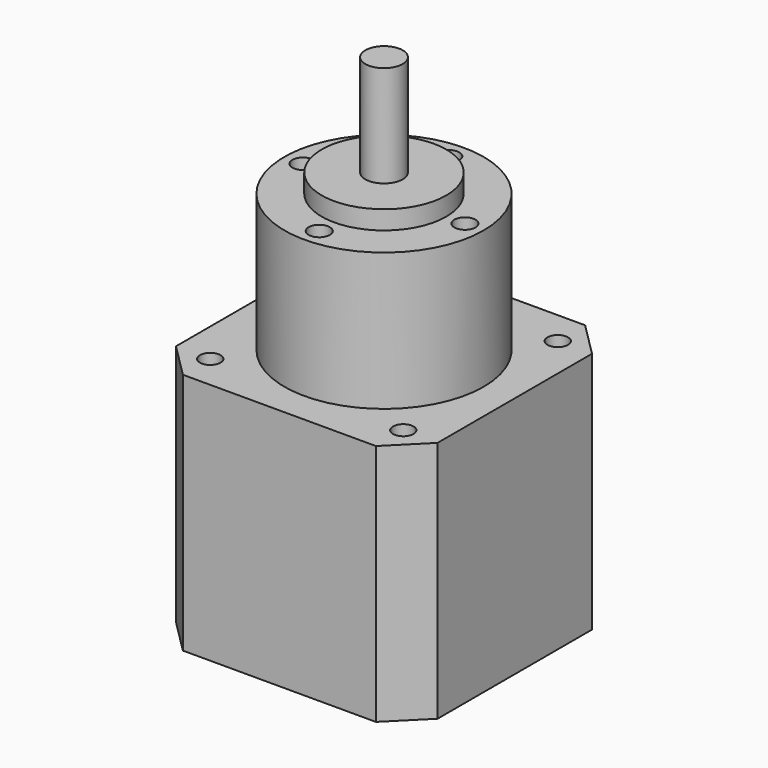
from build123d import *

# Parameters (mm, degrees)
F0_W      = 42
F0_H      = 42
F1_DEPTH  = 39
F2_R      = 16
F3_DEPTH  = 22.1
F4_R      = 10
F5_DEPTH  = 3
F6_R      = 3
F7_DEPTH  = 16.3
F8_SIZE   = 5.5
F10_D     = 3.3
F10_DEPTH = 7
F10_TIP   = 0.9914200214
F12_D     = 3.4
F12_DEPTH = 7
F12_TIP   = 1.0214630523


with BuildPart() as f1:
    # F0 (on Top) → F1 (new body)
    with BuildSketch(Plane.XY):
        Rectangle(F0_W, F0_H)
    extrude(amount=F1_DEPTH)

    # F2 (on face) → F3 (join)
    with BuildSketch(Plane.XY.offset(39)):
        Circle(F2_R)
    extrude(amount=F3_DEPTH)

    # F4 (on face) → F5 (join)
    with BuildSketch(Plane.XY.offset(61.1)):
        Circle(F4_R)
    extrude(amount=F5_DEPTH)

    # F6 (on face) → F7 (join)
    with BuildSketch(Plane.XY.offset(64.1)):
        Circle(F6_R)
    extrude(amount=F7_DEPTH)

    # F8
    f8_edges = [f1.edges().sort_by_distance(p)[0] for p in [
        (-21, 21, 19.5),
        (21, 21, 19.5),
        (21, -21, 19.5),
        (-21, -21, 19.5),
    ]]
    chamfer(f8_edges, length=F8_SIZE)

    # F10
    with Locations(Plane.XY.offset(39)):
        with Locations((-15.5, 15.5), (15.5, 15.5), (15.5, -15.5), (-15.5, -15.5)):
            Hole(F10_D / 2, depth=F10_DEPTH)
            with Locations((0, 0, -(F10_DEPTH + F10_TIP / 2))):  # 118° drill point
                Cone(0, F10_D / 2, F10_TIP, mode=Mode.SUBTRACT)

    # F12
    with Locations(Plane.XY.offset(61.1)):
        with Locations((0, 13), (-13, 0), (0, -13), (13, 0)):
            Hole(F12_D / 2, depth=F12_DEPTH)
            with Locations((0, 0, -(F12_DEPTH + F12_TIP / 2))):  # 118° drill point
                Cone(0, F12_D / 2, F12_TIP, mode=Mode.SUBTRACT)


solid = f1.part
